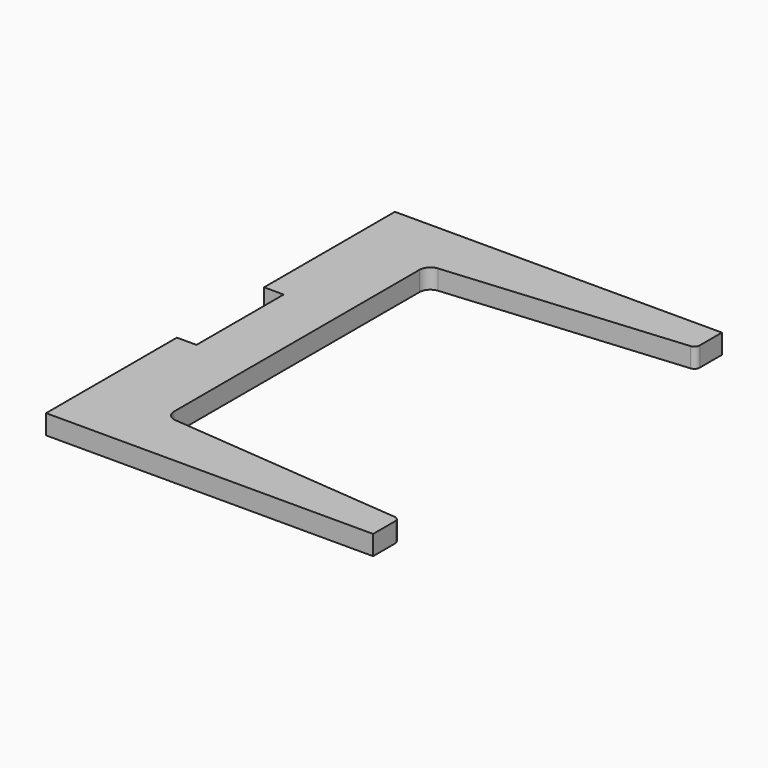
from build123d import *

# Parameters (mm, degrees)
F1_DEPTH = 18


with BuildPart() as f1:
    # F0 (on Top) → F1 (new body)
    with BuildSketch(Plane.XY):
        with BuildLine():
            Line((300, 400), (0, 400))
            Line((0, 400), (0, 297.274311))
            Line((0, 297.274311), (0, 250))
            Line((0, 250), (18, 250))
            Line((18, 250), (18, 150))
            Line((18, 150), (0, 150))
            Line((0, 150), (0, 0))
            Line((0, 0), (300, 0))
            Line((300, 0), (300, 25.418344))
            ThreePointArc((300, 25.418344), (298.686387, 28.796295), (295.435779, 30.399318))
            Line((295.435779, 30.399318), (79.128443, 49.323757))
            ThreePointArc((79.128443, 49.323757), (72.627227, 52.529802), (70, 59.285704))
            Line((70, 59.285704), (70, 340.714296))
            ThreePointArc((70, 340.714296), (72.627227, 347.470198), (79.128443, 350.676243))
            Line((79.128443, 350.676243), (295.435779, 369.600682))
            ThreePointArc((295.435779, 369.600682), (298.686387, 371.203705), (300, 374.581656))
            Line((300, 374.581656), (300, 400))
        make_face()
    extrude(amount=F1_DEPTH)


solid = f1.part
